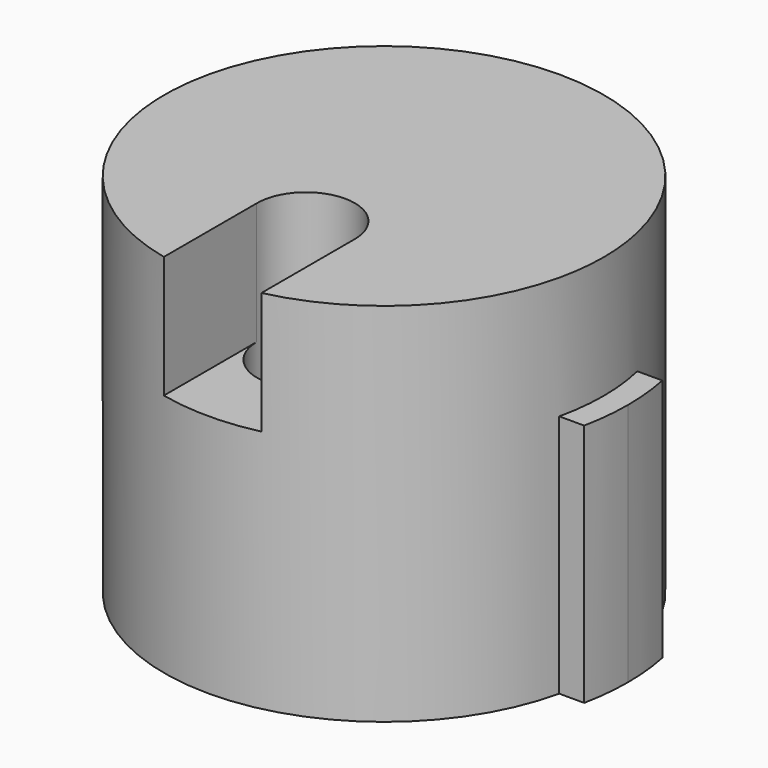
from build123d import *

# Parameters (mm, degrees)
F1_DEPTH = 10
F2_DEPTH = 15
F3_W     = 8
F3_H     = 3
F4_DEPTH = 8
F5_R     = 2
F6_DEPTH = 25
F8_DEPTH = 5


with BuildPart() as f1:
    # F0 (on Top) → F1 (new body)
    with BuildSketch(Plane.XY):
        with BuildLine():
            Line((-8.7749643874, 2), (-9.7979589711, 2))
            ThreePointArc((-9.7979589711, 2), (-10, 0), (-9.7979589711, -2))
            Line((-9.7979589711, -2), (-8.7749643874, -2))
            ThreePointArc((-8.7749643874, -2), (-9, 0), (-8.7749643874, 2))
        make_face()
        with BuildLine():
            ThreePointArc((9.7979589711, -2), (9.9493615301, -1.0050896201), (10, 0))
            ThreePointArc((10, 0), (9.9493615301, 1.0050896201), (9.7979589711, 2))
            Line((9.7979589711, 2), (8.7749643874, 2))
            ThreePointArc((8.7749643874, 2), (8.9435641521, 1.0063102189), (9, 0))
            ThreePointArc((9, 0), (8.9435641521, -1.0063102189), (8.7749643874, -2))
            Line((8.7749643874, -2), (9.7979589711, -2))
        make_face()
        with BuildLine():
            ThreePointArc((9, 0), (8.9435641521, 1.0063102189), (8.7749643874, 2))
            Line((8.7749643874, 2), (-8.7749643874, 2))
            ThreePointArc((-8.7749643874, 2), (-9, 0), (-8.7749643874, -2))
            Line((-8.7749643874, -2), (8.7749643874, -2))
            ThreePointArc((8.7749643874, -2), (8.9435641521, -1.0063102189), (9, 0))
        make_face()
        with BuildLine():
            Line((-8.7749643874, 2), (8.7749643874, 2))
            ThreePointArc((8.7749643874, 2), (0, 9), (-8.7749643874, 2))
        make_face()
        with BuildLine():
            ThreePointArc((-8.7749643874, -2), (0, -9), (8.7749643874, -2))
            Line((8.7749643874, -2), (-8.7749643874, -2))
        make_face()
    extrude(amount=F1_DEPTH)

    # F0 (on Top) → F2 (join)
    with BuildSketch(Plane.XY):
        with BuildLine():
            ThreePointArc((9, 0), (8.9435641521, 1.0063102189), (8.7749643874, 2))
            Line((8.7749643874, 2), (-8.7749643874, 2))
            ThreePointArc((-8.7749643874, 2), (-9, 0), (-8.7749643874, -2))
            Line((-8.7749643874, -2), (8.7749643874, -2))
            ThreePointArc((8.7749643874, -2), (8.9435641521, -1.0063102189), (9, 0))
        make_face()
        with BuildLine():
            Line((-8.7749643874, 2), (8.7749643874, 2))
            ThreePointArc((8.7749643874, 2), (0, 9), (-8.7749643874, 2))
        make_face()
        with BuildLine():
            ThreePointArc((-8.7749643874, -2), (0, -9), (8.7749643874, -2))
            Line((8.7749643874, -2), (-8.7749643874, -2))
        make_face()
    extrude(amount=F2_DEPTH)

    # F3 (on face) → F4 (cut)
    with BuildSketch(Plane.XY):
        Rectangle(F3_W, F3_H)
    extrude(amount=F4_DEPTH, mode=Mode.SUBTRACT)

    # F5 (on face) → F6 (cut)
    with BuildSketch(Plane.XY.offset(15)):
        with Locations((0, -4)):
            Circle(F5_R)
    extrude(amount=-F6_DEPTH, mode=Mode.SUBTRACT)

    # F7 (on face) → F8 (cut)
    with BuildSketch(Plane.XY.offset(15)):
        with BuildLine():
            ThreePointArc((1.9984808879, -4.0779367749), (-0.0179678096, -5.9999192878), (-1.9995585875, -4.0420173194))
            Line((-1.9995585875, -4.0420173194), (-1.9995585875, -8.775064983))
            ThreePointArc((-1.9995585875, -8.775064983), (-0.0005526547, -8.999999983), (1.9984808879, -8.7753104869))
            Line((1.9984808879, -8.7753104869), (1.9984808879, -4.0779367749))
        make_face()
    extrude(amount=-F8_DEPTH, mode=Mode.SUBTRACT)


solid = f1.part
